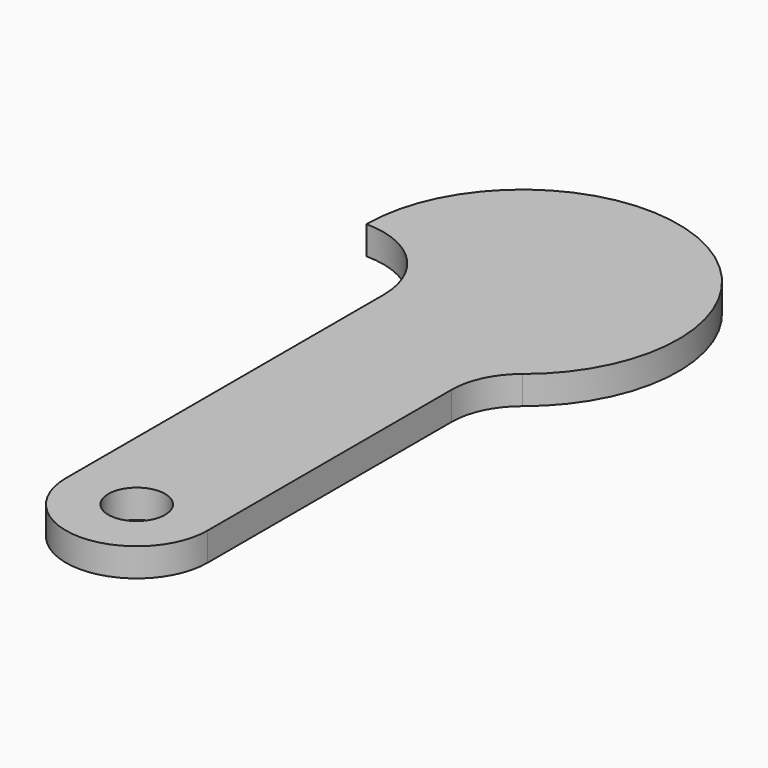
from build123d import *

# Parameters (mm, degrees)
F0_R     = 2
F1_DEPTH = 2


with BuildPart() as f1:
    # F0 (on Top) → F1 (new body)
    with BuildSketch(Plane.XY):
        with BuildLine():
            Line((-5, 17.223288), (-5, -10.776712))
            ThreePointArc((-5, -10.776712), (0, -15.776712), (5, -10.776712))
            Line((5, -10.776712), (5, 10.733292))
            ThreePointArc((5, 10.733292), (5.493061, 12.898356), (6.875, 14.636416))
            ThreePointArc((6.875, 14.636416), (4.76314, 33.138554), (-11, 23.223288))
            ThreePointArc((-11, 23.223288), (-6.757359, 21.465929), (-5, 17.223288))
        make_face()
        with Locations((0, -10.776712)):
            Circle(F0_R, mode=Mode.SUBTRACT)
    extrude(amount=F1_DEPTH)


solid = f1.part
